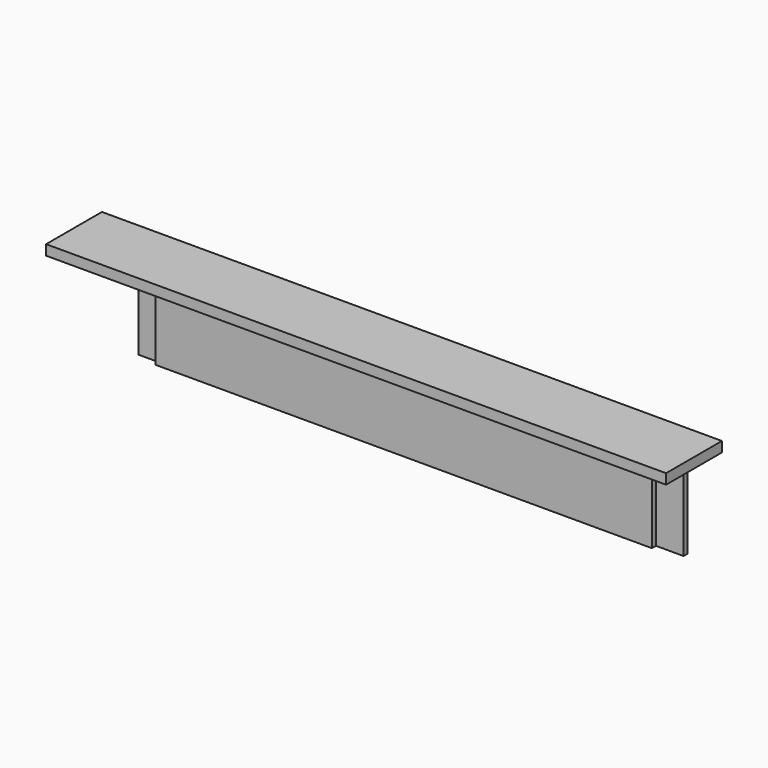
from build123d import *

# Parameters (mm, degrees)
F0_W     = 1550.9875
F0_H     = 25.4
F1_DEPTH = 174.625
F3_W     = 1419.225
F3_H     = 25.4
F4_DEPTH = 130.175
F5_W     = 1292.225
F5_H     = 25.4
F6_DEPTH = 73.025
F2_W     = 1363.6625
F2_H     = 250.825
F7_DEPTH = 25.4
F9_DEPTH = 12.7


with BuildPart() as f1:
    # F0 (on Front) → F1 (new body)
    with BuildSketch(Plane.XZ):
        with Locations((0, -12.7)):
            Rectangle(F0_W, F0_H)
    extrude(amount=F1_DEPTH)

    # F3 (on Front) → F4 (join)
    with BuildSketch(Plane.XZ):
        with Locations((0, -38.1)):
            Rectangle(F3_W, F3_H)
    extrude(amount=F4_DEPTH)

    # F5 (on Front) → F6 (join)
    with BuildSketch(Plane.XZ):
        with Locations((0, -63.5)):
            Rectangle(F5_W, F5_H)
    extrude(amount=F6_DEPTH)

    # F2 (on Front) → F7 (join)
    with BuildSketch(Plane.XZ):
        with Locations((7.9375, -150.8125)):
            Rectangle(F2_W, F2_H)
    extrude(amount=F7_DEPTH)

    # F8 (on face) → F9 (cut)
    with BuildSketch(Plane.XZ.offset(25.4)):
        Polygon((-673.89375, -50.8), (-673.89375, -276.225), (-620.7125, -276.225), (-620.7125, -76.2), (-646.1125, -76.2), (-646.1125, -50.8), align=None)
        Polygon((620.7125, -76.2), (620.7125, -276.225), (689.76875, -276.225), (689.76875, -50.8), (646.1125, -50.8), (646.1125, -76.2), align=None)
    extrude(amount=-F9_DEPTH, mode=Mode.SUBTRACT)


solid = f1.part
